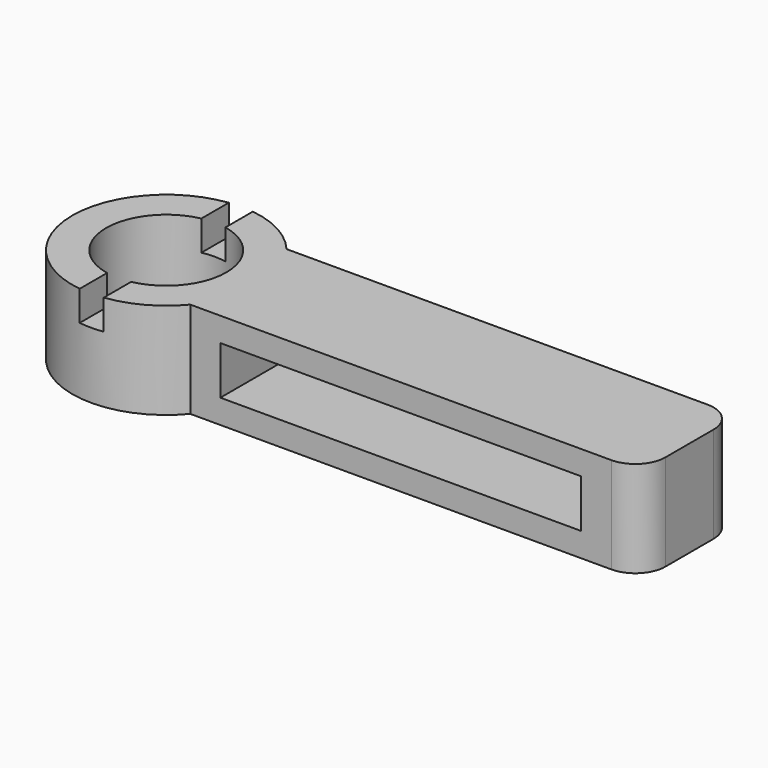
from build123d import *

# Parameters (mm, degrees)
F1_DEPTH = 16
F2_R     = 10
F3_DEPTH = 25
F4_W     = 60
F4_H     = 8
F5_DEPTH = 25
F7_DEPTH = 5


with BuildPart() as f1:
    # F0 (on Top) → F1 (new body)
    with BuildSketch(Plane.XY):
        with BuildLine():
            Line((75, -5), (75, 0))
            Line((75, 0), (75, 5))
            ThreePointArc((75, 5), (73.535534, 8.535534), (70, 10))
            Line((70, 10), (0, 10))
            ThreePointArc((0, 10), (-27.620499, 0), (0, -10))
            Line((0, -10), (70, -10))
            ThreePointArc((70, -10), (73.535534, -8.535534), (75, -5))
        make_face()
    extrude(amount=F1_DEPTH)

    # F2 (on face) → F3 (cut)
    with BuildSketch(Plane.XY.offset(16)):
        with Locations((-12, 0)):
            Circle(F2_R)
    extrude(amount=-F3_DEPTH, mode=Mode.SUBTRACT)

    # F4 (on face) → F5 (cut)
    with BuildSketch(Plane.XZ.offset(10)):
        with Locations((35, 8)):
            Rectangle(F4_W, F4_H)
    extrude(amount=-F5_DEPTH, mode=Mode.SUBTRACT)

    # F6 (on face) → F7 (cut)
    with BuildSketch(Plane.XY.offset(16)):
        with BuildLine():
            ThreePointArc((-10.00009, 15.491945), (-12.000217, 15.620499), (-14.000341, 15.491889))
            Line((-14.000341, 15.491889), (-14.000341, 9.797889))
            ThreePointArc((-14.000341, 9.797889), (-12.00022, 10), (-10.00009, 9.797977))
            Line((-10.00009, 9.797977), (-10.00009, 15.491945))
        make_face()
        with BuildLine():
            Line((-14.000341, -9.797889), (-14.000341, -15.491889))
            ThreePointArc((-14.000341, -15.491889), (-12.000344, -15.620499), (-10.000341, -15.491977))
            Line((-10.000341, -15.491977), (-10.00009, -9.797977))
            ThreePointArc((-10.00009, -9.797977), (-12.00022, -10), (-14.000341, -9.797889))
        make_face()
    extrude(amount=-F7_DEPTH, mode=Mode.SUBTRACT)


solid = f1.part
